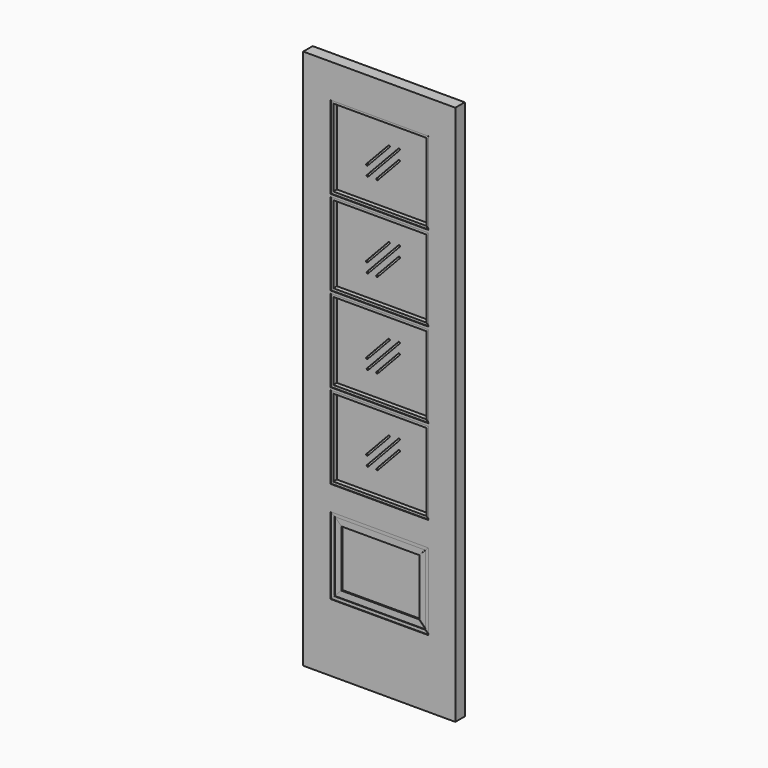
from build123d import *

# Parameters (mm, degrees)
F1_W           = 571.5
F1_H           = 2032
F1_W_2         = 368.3
F1_H_2         = 288.925
F1_H_3         = 310.35625
F2_DEPTH       = 22.225
F2_DEPTH_BACK  = 22.225
F4_DEPTH       = 20.0152
F4_DEPTH_BACK  = 20.0152
F6_DEPTH       = 19.05
F6_DEPTH_BACK  = 19.05
F8_DEPTH       = 17.78
F8_DEPTH_BACK  = 17.78
F10_DEPTH      = 16.51
F10_DEPTH_BACK = 16.51
F11_W          = 292.1
F11_H          = 212.725
F12_DEPTH      = 12.7
F12_DEPTH_BACK = 12.7
F13_W          = 349.25
F13_H          = 291.30625
F14_DEPTH      = 3.175
F14_DEPTH_BACK = 3.175
F16_DEPTH      = 25.4
F16_DEPTH_BACK = 25.4


with BuildPart() as f2:
    # F1 (on Front) → F2 (new body, two sides)
    with BuildSketch(Plane.XZ) as f2_sk:
        with Locations((285.75, 1016)):
            Rectangle(F1_W, F1_H)
        with Locations((285.75, 398.4625)):
            Rectangle(F1_W_2, F1_H_2, mode=Mode.SUBTRACT)
        with Locations((285.75, 790.178125)):
            Rectangle(F1_W_2, F1_H_3, mode=Mode.SUBTRACT)
        with Locations((285.75, 1110.059375)):
            Rectangle(F1_W_2, F1_H_3, mode=Mode.SUBTRACT)
        with Locations((285.75, 1429.940625)):
            Rectangle(F1_W_2, F1_H_3, mode=Mode.SUBTRACT)
        with Locations((285.75, 1749.821875)):
            Rectangle(F1_W_2, F1_H_3, mode=Mode.SUBTRACT)
    extrude(amount=F2_DEPTH)
    extrude(f2_sk.sketch, amount=-F2_DEPTH_BACK)

    # F3 (on Front) → F4 (join, two sides)
    with BuildSketch(Plane.XZ) as f4_sk:
        Polygon((111.125, 1895.475), (460.375, 1895.475), (469.9, 1905), (101.6, 1905), align=None)
        Polygon((469.9, 1594.64375), (460.375, 1604.16875), (111.125, 1604.16875), (101.6, 1594.64375), align=None)
        Polygon((111.125, 1575.59375), (460.375, 1575.59375), (469.9, 1585.11875), (101.6, 1585.11875), align=None)
        Polygon((469.9, 1274.7625), (460.375, 1284.2875), (111.125, 1284.2875), (101.6, 1274.7625), align=None)
        Polygon((111.125, 1255.7125), (460.375, 1255.7125), (469.9, 1265.2375), (101.6, 1265.2375), align=None)
        Polygon((469.9, 954.88125), (460.375, 964.40625), (111.125, 964.40625), (101.6, 954.88125), align=None)
        Polygon((111.125, 935.83125), (460.375, 935.83125), (469.9, 945.35625), (101.6, 945.35625), align=None)
        Polygon((111.125, 644.525), (101.6, 635), (469.9, 635), (460.375, 644.525), align=None)
        Polygon((457.2, 530.225), (469.9, 542.925), (101.6, 542.925), (114.3, 530.225), align=None)
        Polygon((101.6, 254), (469.9, 254), (457.2, 266.7), (114.3, 266.7), align=None)
    extrude(amount=F4_DEPTH)
    extrude(f4_sk.sketch, amount=-F4_DEPTH_BACK)

    # F5 (on Front) → F6 (join, two sides)
    with BuildSketch(Plane.XZ) as f6_sk:
        Polygon((101.6, 1594.64375), (111.125, 1604.16875), (111.125, 1895.475), (101.6, 1905), align=None)
        Polygon((460.375, 1895.475), (460.375, 1604.16875), (469.9, 1594.64375), (469.9, 1905), align=None)
        Polygon((101.6, 1274.7625), (111.125, 1284.2875), (111.125, 1575.59375), (101.6, 1585.11875), align=None)
        Polygon((460.375, 1575.59375), (460.375, 1284.2875), (469.9, 1274.7625), (469.9, 1585.11875), align=None)
        Polygon((101.6, 954.88125), (111.125, 964.40625), (111.125, 1255.7125), (101.6, 1265.2375), align=None)
        Polygon((460.375, 1255.7125), (460.375, 964.40625), (469.9, 954.88125), (469.9, 1265.2375), align=None)
        Polygon((111.125, 935.83125), (101.6, 945.35625), (101.6, 635), (111.125, 644.525), align=None)
        Polygon((460.375, 935.83125), (460.375, 644.525), (469.9, 635), (469.9, 945.35625), align=None)
        Polygon((101.6, 254), (114.3, 266.7), (114.3, 530.225), (101.6, 542.925), align=None)
        Polygon((457.2, 530.225), (457.2, 266.7), (469.9, 254), (469.9, 542.925), align=None)
    extrude(amount=F6_DEPTH)
    extrude(f6_sk.sketch, amount=-F6_DEPTH_BACK)

    # F7 (on Front) → F8 (join, two sides)
    with BuildSketch(Plane.XZ) as f8_sk:
        Polygon((431.8, 504.825), (457.2, 530.225), (114.3, 530.225), (139.7, 504.825), align=None)
        Polygon((457.2, 266.7), (431.8, 292.1), (139.7, 292.1), (114.3, 266.7), align=None)
    extrude(amount=F8_DEPTH)
    extrude(f8_sk.sketch, amount=-F8_DEPTH_BACK)

    # F9 (on Front) → F10 (join, two sides)
    with BuildSketch(Plane.XZ) as f10_sk:
        Polygon((139.7, 504.825), (114.3, 530.225), (114.3, 266.7), (139.7, 292.1), align=None)
        Polygon((431.8, 504.825), (431.8, 292.1), (457.2, 266.7), (457.2, 530.225), align=None)
    extrude(amount=F10_DEPTH)
    extrude(f10_sk.sketch, amount=-F10_DEPTH_BACK)

    # F11 (on Front) → F12 (join, two sides)
    with BuildSketch(Plane.XZ) as f12_sk:
        with Locations((285.75, 398.4625)):
            Rectangle(F11_W, F11_H)
    extrude(amount=F12_DEPTH)
    extrude(f12_sk.sketch, amount=-F12_DEPTH_BACK)

    # F13 (on Front) → F14 (join, two sides)
    with BuildSketch(Plane.XZ) as f14_sk:
        with Locations((285.75, 1749.821875)):
            Rectangle(F13_W, F13_H)
        with Locations((285.75, 1429.940625)):
            Rectangle(F13_W, F13_H)
        with Locations((285.75, 1110.059375)):
            Rectangle(F13_W, F13_H)
        with Locations((285.75, 790.178125)):
            Rectangle(F13_W, F13_H)
    extrude(amount=F14_DEPTH)
    extrude(f14_sk.sketch, amount=-F14_DEPTH_BACK)

    # F15 (on Front) → F16 (cut, two sides)
    with BuildSketch(Plane.XZ) as f16_sk:
        with BuildLine():
            ThreePointArc((309.3058033762, 1168.6022625873), (309.1651009255, 1173.0901855836), (304.6771779292, 1172.9494831329))
            Line((304.6771779292, 1172.9494831329), (221.9274923946, 1084.8432331329))
            ThreePointArc((221.9274923946, 1084.8432331329), (222.0681948453, 1080.3553101366), (226.5561178416, 1080.4960125873))
            Line((226.5561178416, 1080.4960125873), (309.3058033762, 1168.6022625873))
        make_face()
        with BuildLine():
            ThreePointArc((224.1690206099, 1049.1298602728), (224.3097230605, 1044.6419372765), (228.7976460568, 1044.7826397272))
            Line((228.7976460568, 1044.7826397272), (347.3309793901, 1170.9888897272))
            ThreePointArc((347.3309793901, 1170.9888897272), (347.1902769395, 1175.4768127235), (342.7023539432, 1175.3361102728))
            Line((342.7023539432, 1175.3361102728), (224.1690206099, 1049.1298602728))
        make_face()
        with BuildLine():
            ThreePointArc((224.1690206099, 729.2486102728), (224.3097230605, 724.7606872765), (228.7976460568, 724.9013897272))
            Line((228.7976460568, 724.9013897272), (347.3309793901, 851.1076397272))
            ThreePointArc((347.3309793901, 851.1076397272), (347.1902769395, 855.5955627235), (342.7023539432, 855.4548602728))
            Line((342.7023539432, 855.4548602728), (224.1690206099, 729.2486102728))
        make_face()
        with BuildLine():
            ThreePointArc((309.3058033762, 848.7210125873), (309.1651009255, 853.2089355836), (304.6771779292, 853.0682331329))
            Line((304.6771779292, 853.0682331329), (221.9274923946, 764.9619831329))
            ThreePointArc((221.9274923946, 764.9619831329), (222.0681948453, 760.4740601366), (226.5561178416, 760.6147625873))
            Line((226.5561178416, 760.6147625873), (309.3058033762, 848.7210125873))
        make_face()
        with BuildLine():
            ThreePointArc((347.3309793901, 1452.7701397272), (347.1902769395, 1457.2580627235), (342.7023539432, 1457.1173602728))
            Line((342.7023539432, 1457.1173602728), (259.9526684086, 1369.0111102728))
            ThreePointArc((259.9526684086, 1369.0111102728), (260.0933708593, 1364.5231872765), (264.5812938556, 1364.6638897272))
            Line((264.5812938556, 1364.6638897272), (347.3309793901, 1452.7701397272))
        make_face()
        with BuildLine():
            ThreePointArc((347.3309793901, 1132.8888897272), (347.1902769394, 1137.3768127235), (342.7023539432, 1137.2361102728))
            Line((342.7023539432, 1137.2361102728), (259.9526684086, 1049.1298602728))
            ThreePointArc((259.9526684086, 1049.1298602728), (260.0933708593, 1044.6419372765), (264.5812938556, 1044.7826397272))
            Line((264.5812938556, 1044.7826397272), (347.3309793901, 1132.8888897272))
        make_face()
        with BuildLine():
            ThreePointArc((224.1690206099, 1369.0111102728), (224.3097230605, 1364.5231872765), (228.7976460568, 1364.6638897272))
            Line((228.7976460568, 1364.6638897272), (347.3309793901, 1490.8701397272))
            ThreePointArc((347.3309793901, 1490.8701397272), (347.1902769395, 1495.3580627235), (342.7023539432, 1495.2173602728))
            Line((342.7023539432, 1495.2173602728), (224.1690206099, 1369.0111102728))
        make_face()
        with BuildLine():
            ThreePointArc((309.3058033762, 1488.4835125873), (309.1651009255, 1492.9714355836), (304.6771779292, 1492.8307331329))
            Line((304.6771779292, 1492.8307331329), (221.9274923946, 1404.7244831329))
            ThreePointArc((221.9274923946, 1404.7244831329), (222.0681948453, 1400.2365601366), (226.5561178416, 1400.3772625873))
            Line((226.5561178416, 1400.3772625873), (309.3058033762, 1488.4835125873))
        make_face()
        with BuildLine():
            ThreePointArc((347.3309793901, 1772.6513897272), (347.1902769395, 1777.1393127235), (342.7023539432, 1776.9986102728))
            Line((342.7023539432, 1776.9986102728), (259.9526684086, 1688.8923602728))
            ThreePointArc((259.9526684086, 1688.8923602728), (260.0933708593, 1684.4044372765), (264.5812938556, 1684.5451397272))
            Line((264.5812938556, 1684.5451397272), (347.3309793901, 1772.6513897272))
        make_face()
        with BuildLine():
            ThreePointArc((224.1690206099, 1688.8923602728), (224.3097230605, 1684.4044372765), (228.7976460568, 1684.5451397272))
            Line((228.7976460568, 1684.5451397272), (347.3309793901, 1810.7513897272))
            ThreePointArc((347.3309793901, 1810.7513897272), (347.1902769395, 1815.2393127235), (342.7023539432, 1815.0986102728))
            Line((342.7023539432, 1815.0986102728), (224.1690206099, 1688.8923602728))
        make_face()
        with BuildLine():
            ThreePointArc((347.3309793901, 813.0076397272), (347.1902769395, 817.4955627235), (342.7023539432, 817.3548602728))
            Line((342.7023539432, 817.3548602728), (259.9526684086, 729.2486102728))
            ThreePointArc((259.9526684086, 729.2486102728), (260.0933708593, 724.7606872765), (264.5812938556, 724.9013897272))
            Line((264.5812938556, 724.9013897272), (347.3309793901, 813.0076397272))
        make_face()
        with BuildLine():
            ThreePointArc((309.3058033762, 1808.3647625873), (309.1651009255, 1812.8526855836), (304.6771779292, 1812.7119831329))
            Line((304.6771779292, 1812.7119831329), (221.9274923946, 1724.6057331329))
            ThreePointArc((221.9274923946, 1724.6057331329), (222.0681948453, 1720.1178101366), (226.5561178416, 1720.2585125873))
            Line((226.5561178416, 1720.2585125873), (309.3058033762, 1808.3647625873))
        make_face()
    extrude(amount=-F16_DEPTH, mode=Mode.SUBTRACT)
    extrude(f16_sk.sketch, amount=F16_DEPTH_BACK, mode=Mode.SUBTRACT)


solid = f2.part
